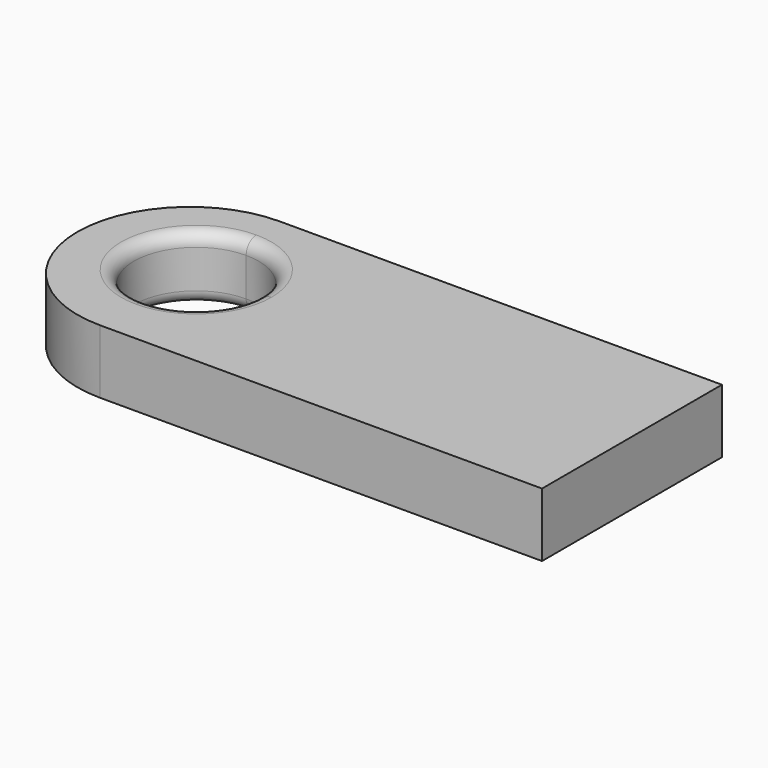
from build123d import *

# Parameters (mm, degrees)
F1_DEPTH = 25.4
F2_R     = 5.08


with BuildPart() as f1:
    # F0 (on Top) → F1 (new body)
    with BuildSketch(Plane.XY):
        with BuildLine():
            Line((-87.9462435842, -44.732753955), (87.9462435842, -44.732753955))
            Line((87.9462435842, -44.732753955), (87.9462435842, 44.732753955))
            Line((87.9462435842, 44.732753955), (-87.9462435842, 44.732753955))
            ThreePointArc((-87.9462435842, 44.732753955), (-56.3154099215, 31.6308336627), (-43.2134896292, 0))
            ThreePointArc((-43.2134896292, 0), (-56.3154099215, -31.6308336627), (-87.9462435842, -44.732753955))
        make_face()
        with BuildLine():
            ThreePointArc((-87.9462435842, 44.732753955), (-132.6789975391, 0), (-87.9462435842, -44.732753955))
            Line((-87.9462435842, -44.732753955), (-87.9462435842, -21.6227868828))
            ThreePointArc((-87.9462435842, -21.6227868828), (-112.74755758, 3.1785271131), (-87.9462435842, 27.9798411089))
            Line((-87.9462435842, 27.9798411089), (-87.9462435842, 44.732753955))
        make_face()
        with BuildLine():
            Line((-87.9462435842, -21.6227868828), (-87.9462435842, -44.732753955))
            ThreePointArc((-87.9462435842, -44.732753955), (-56.3154099215, -31.6308336627), (-43.2134896292, 0))
            ThreePointArc((-43.2134896292, 0), (-56.3154099215, 31.6308336627), (-87.9462435842, 44.732753955))
            Line((-87.9462435842, 44.732753955), (-87.9462435842, 27.9798411089))
            ThreePointArc((-87.9462435842, 27.9798411089), (-70.4090662754, 20.7157044218), (-63.1449295883, 3.1785271131))
            ThreePointArc((-63.1449295883, 3.1785271131), (-70.4090662754, -14.3586501957), (-87.9462435842, -21.6227868828))
        make_face()
    extrude(amount=F1_DEPTH)

    # F2
    f2_edges = [f1.edges().sort_by_distance(p)[0] for p in [
        (-63.14493, 3.178527, 12.7),
        (-112.747558, 3.178527, 0),
        (-112.747558, 3.178527, 25.4),
    ]]
    fillet(f2_edges, radius=F2_R)


solid = f1.part
